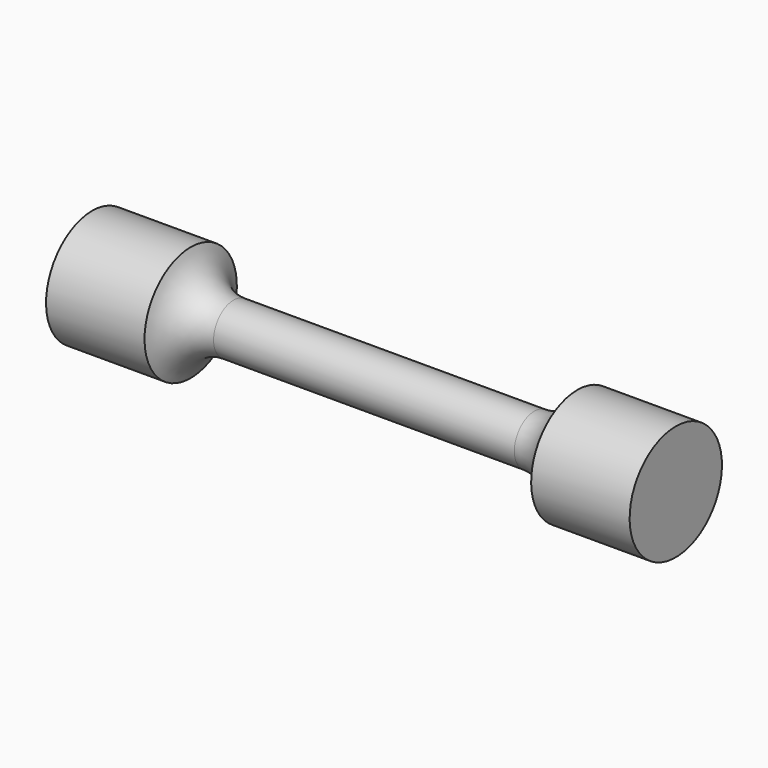
from build123d import *


with BuildPart() as f1:
    # F0 (on Front) → F1 (revolve)
    with BuildSketch(Plane.XZ):
        with BuildLine():
            Line((27, 4.5), (0, 4.5))
            Line((0, 4.5), (-27, 4.5))
            ThreePointArc((-27, 4.5), (-31.840667, 6.130703), (-34.707911, 10.358013))
            Line((-34.707911, 10.358013), (-52.390722, 10.358013))
            Line((-52.390722, 10.358013), (-52.390722, 0))
            Line((-52.390722, 0), (0, 0))
            Line((0, 0), (52.390722, 0))
            Line((52.390722, 0), (52.390722, 10.358013))
            Line((52.390722, 10.358013), (34.707911, 10.358013))
            ThreePointArc((34.707911, 10.358013), (31.840667, 6.130703), (27, 4.5))
        make_face()
    revolve(axis=Axis((-26.195361, 0, 0), (1, 0, 0)))


solid = f1.part
